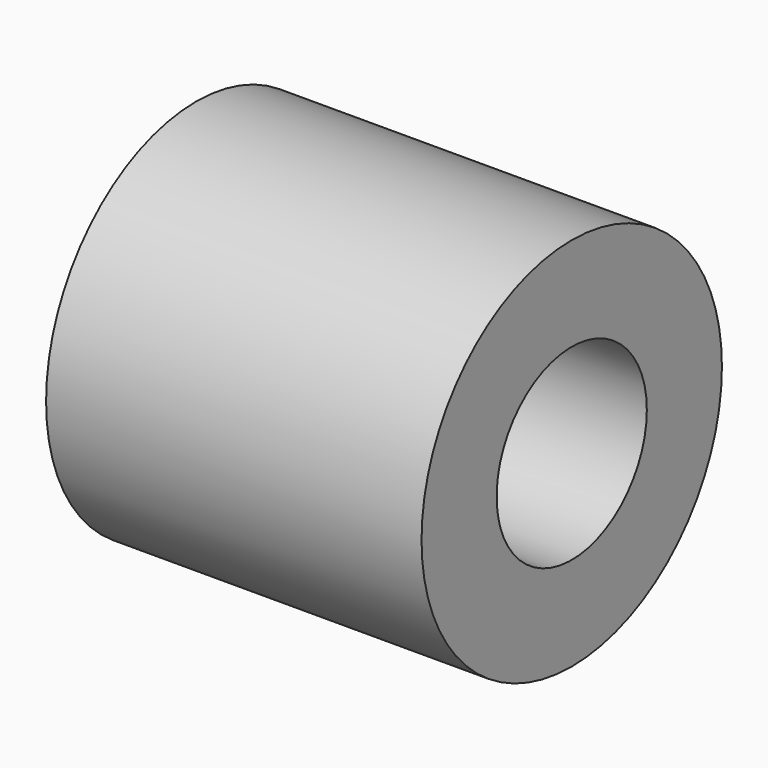
from build123d import *

# Parameters (mm, degrees)
F0_W     = 25.4
F0_H     = 12.7
F2_R     = 6.35
F3_DEPTH = 25.401


with BuildPart() as f1:
    # F0 (on Top) → F1 (revolve)
    with BuildSketch(Plane.XY):
        with Locations((-12.7, 6.35)):
            Rectangle(F0_W, F0_H)
    revolve(axis=Axis((-12.7, 0, 0), (1, 0, 0)))

    # F2 (on face) → F3 (cut, through all)
    with BuildSketch(Plane.YZ):
        Circle(F2_R)
    extrude(amount=-F3_DEPTH, mode=Mode.SUBTRACT)


solid = f1.part
